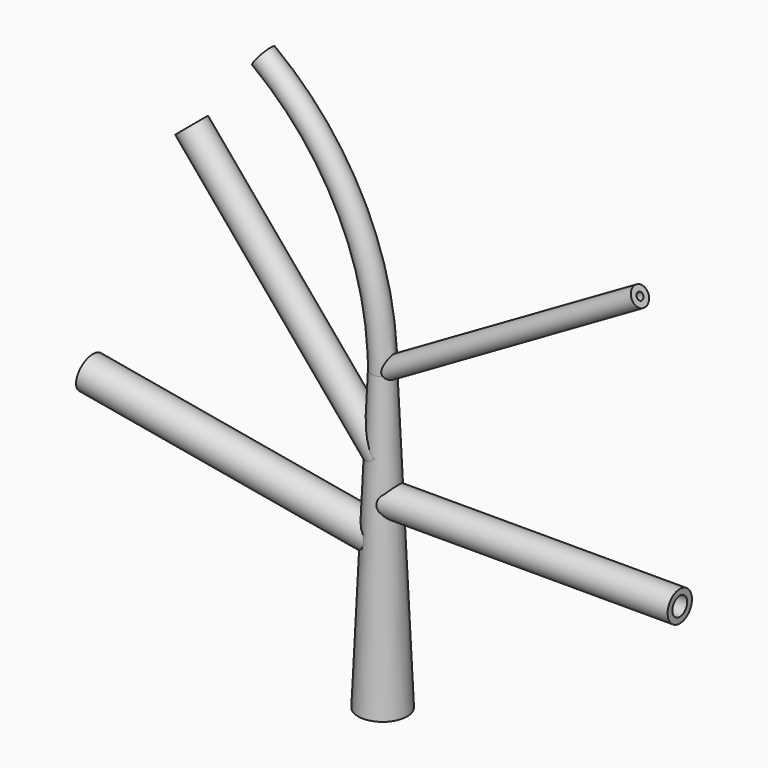
from build123d import *

# Parameters (mm, degrees)
F0_R      = 1.55
F5_R      = 1.3
F6_DEPTH  = 40
F9_R      = 2
F10_DEPTH = 40
F13_R     = 2.3
F14_DEPTH = 40
F15_R     = 2.05
F16_DEPTH = 40
F22_R     = 1.5
F23_DEPTH = 41
F24_R     = 1.25
F25_DEPTH = 41
F26_R     = 1
F27_DEPTH = 41
F28_R     = 0.75
F30_R     = 0.5
F31_DEPTH = 41


with BuildPart() as f2:
    # F2: sweep along a path in F1
    with BuildLine(Plane.XZ) as f2_path:
        Line((0, 0), (0, 40))
        ThreePointArc((0, 40), (-4.2333582872, 57.9094204425), (-16.0373670293, 72.0279912125))
    # F0 (on Top) → F2 (sweep)
    with BuildSketch(Plane.XY):
        Circle(F0_R)
    sweep(path=f2_path.line)

    # F5 (on line) → F6 (join)
    with BuildSketch(Plane(origin=(17.3205080757, 0, 10), x_dir=(0, -1, 0), z_dir=(-0.8660254038, 0, -0.5))):
        with Locations((0, 34.6410161514)):
            Circle(F5_R)
    extrude(amount=-F6_DEPTH)

    # F9 (on line) → F10 (join)
    with BuildSketch(Plane(origin=(-14.7721162952, 0, 17.604722665), x_dir=(0.7660444431, 0, 0.6427876097), z_dir=(0.6427876097, 0, -0.7660444431))):
        with Locations((19.2822217941, 0)):
            Circle(F9_R)
    extrude(amount=-F10_DEPTH)

    # F13 (on line) → F14 (join)
    with BuildSketch(Plane(origin=(-3.4202014333, 0, 0.6030737921), x_dir=(0, 1, 0), z_dir=(0.984807753, 0, -0.1736481777))):
        with Locations((0, 19.6961550602)):
            Circle(F13_R)
    extrude(amount=-F14_DEPTH)

    # F15 (on Right) → F16 (join)
    with BuildSketch(Plane.YZ):
        with Locations((0, 25)):
            Circle(F15_R)
    extrude(amount=F16_DEPTH)

    # F20 (on Front) → F21 (revolve, cut)
    with BuildSketch(Plane.XZ):
        Polygon((0, 40), (0, 0), (2.5, 0), (0.75, 40), align=None)
    revolve(axis=Axis((0, 0, 20), (0, 0, 1)), mode=Mode.SUBTRACT)


with BuildPart() as f19:
    # F17 (on Front) → F19 (revolve)
    with BuildSketch(Plane.XZ):
        Polygon((0.75, 40), (2.5, 0), (3.3, 0), (1.55, 40), align=None)
    revolve(axis=Axis((0, 0, 18.6809804291), (0, 0, 1)))


with BuildPart() as f23_tool:
    # F22 (on face) → F23 (new body)
    with BuildSketch(Plane(origin=(-42.8125115537, 0, 7.5490008988), x_dir=(0, -1, 0), z_dir=(-0.984807753, 0, 0.1736481777))):
        with Locations((0, 19.6961550602)):
            Circle(F22_R)
    extrude(amount=-F23_DEPTH)


with BuildPart() as f2_1:
    add(f2.part)

    # F23: cut by f23_tool
    add(f23_tool.part, mode=Mode.SUBTRACT)


with BuildPart() as f19_1:
    add(f19.part)

    # F23: cut by f23_tool
    add(f23_tool.part, mode=Mode.SUBTRACT)


with BuildPart() as f25_tool:
    # F24 (on face) → F25 (new body)
    with BuildSketch(Plane.YZ.offset(40)):
        with Locations((0, 25)):
            Circle(F24_R)
    extrude(amount=-F25_DEPTH)


with BuildPart() as f2_2:
    add(f2_1.part)

    # F25: cut by f25_tool
    add(f25_tool.part, mode=Mode.SUBTRACT)


with BuildPart() as f19_2:
    add(f19_1.part)

    # F25: cut by f25_tool
    add(f25_tool.part, mode=Mode.SUBTRACT)


with BuildPart() as f27_tool:
    # F26 (on face) → F27 (new body)
    with BuildSketch(Plane(origin=(-40.4836206826, 0, 48.2465003898), x_dir=(0.7660444431, 0, 0.6427876097), z_dir=(-0.6427876097, 0, 0.7660444431))):
        with Locations((19.2822217941, 0)):
            Circle(F26_R)
    extrude(amount=-F27_DEPTH)


with BuildPart() as f2_3:
    add(f2_2.part)

    # F27: cut by f27_tool
    add(f27_tool.part, mode=Mode.SUBTRACT)

    # F29: sweep along a path in F1
    with BuildLine(Plane.XZ) as f29_path:
        Line((0, 0), (0, 40))
        ThreePointArc((0, 40), (-4.2333582872, 57.9094204425), (-16.0373670293, 72.0279912125))
    # F28 (on face) → F29 (sweep, cut)
    with BuildSketch(Plane(origin=(-44.8316804831, 0, 33.5420694276), x_dir=(0, -1, 0), z_dir=(-0.8006997803, 0, 0.5990658243))):
        with Locations((0, 48.0653582418)):
            Circle(F28_R)
    sweep(path=f29_path.line, mode=Mode.SUBTRACT)

    # F30 (on face) → F31 (cut)
    with BuildSketch(Plane(origin=(51.9615242271, 0, 30), x_dir=(0, 1, 0), z_dir=(0.8660254038, 0, 0.5))):
        with Locations((0, 34.6410161514)):
            Circle(F30_R)
    extrude(amount=-F31_DEPTH, mode=Mode.SUBTRACT)


with BuildPart() as f19_3:
    add(f19_2.part)

    # F27: cut by f27_tool
    add(f27_tool.part, mode=Mode.SUBTRACT)


solid = Compound([f2_3.part, f19_3.part])
